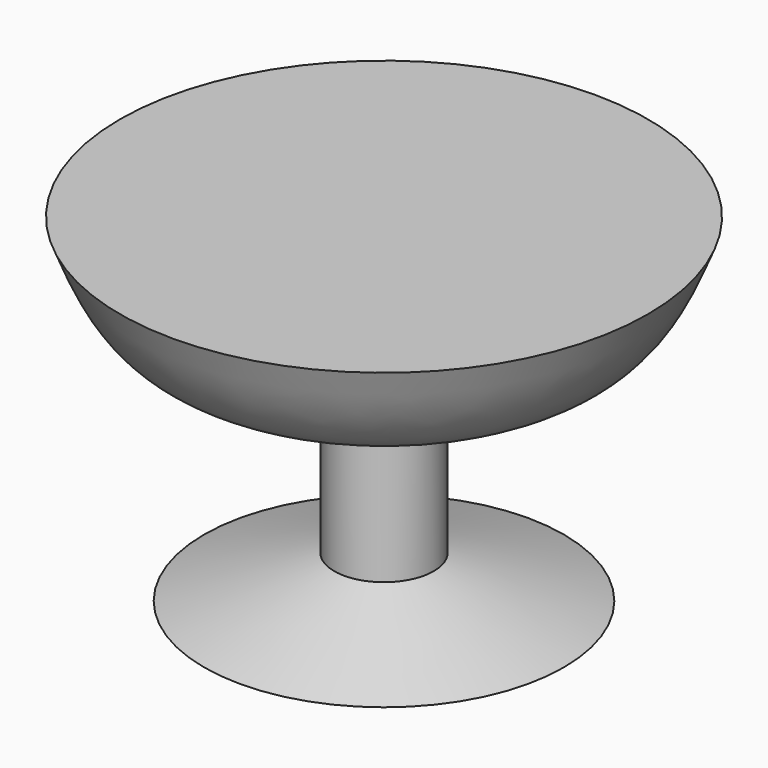
from build123d import *


with BuildPart() as f1:
    # F0 (on Front) → F1 (revolve)
    with BuildSketch(Plane.XZ):
        with BuildLine():
            Line((0, 75.0713720918), (0, 0))
            Line((0, 0), (39.9199835956, 0))
            Line((39.9199835956, 0), (11.035900563, 9.4009526074))
            Line((11.035900563, 9.4009526074), (11.035900563, 45.7785464823))
            add(Edge.make_bspline(
                [(11.035900563, 45.7785464823), (24.2322553796, 47.085952444), (48.4173868956, 49.4820523949), (55.4089508767, 67.0769428599), (58.5856437683, 75.0713720918)],
                knots=[0, 0, 0, 0, 0.5456391588, 1, 1, 1, 1], degree=3))
            Line((58.5856437683, 75.0713720918), (0, 75.0713720918))
        make_face()
    revolve(axis=Axis((0, 0, 37.5356860459), (0, 0, 1)))


solid = f1.part
